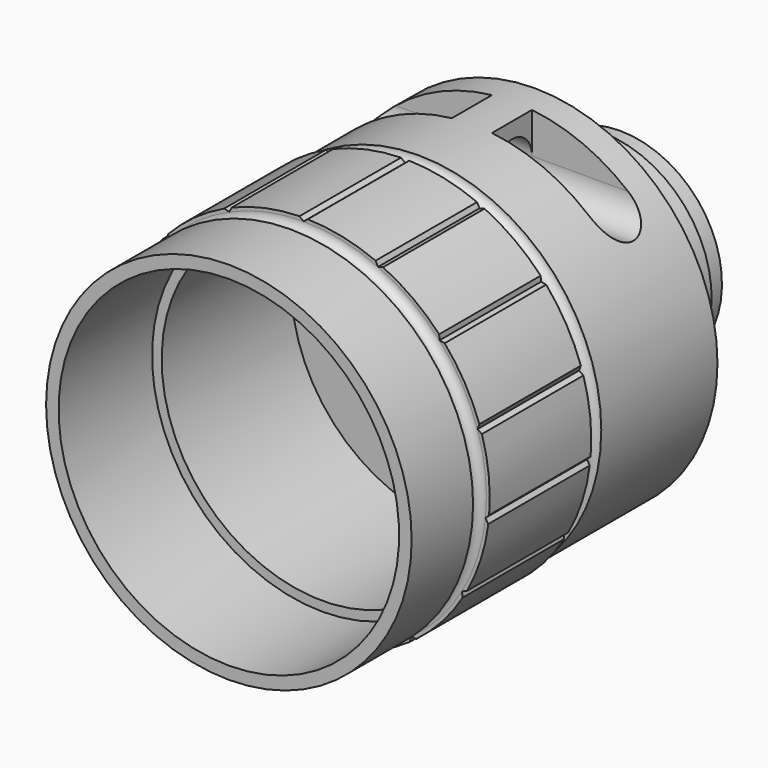
from build123d import *

# Parameters (mm, degrees)
F4_DEPTH = 25
F5_R     = 1.5
F6_DEPTH = 12.5
F8_W     = 10
F8_H     = 3
F9_DEPTH = 2.7


with BuildPart() as f2:
    # F0 (on Right) → F2 (revolve)
    with BuildSketch(Plane.YZ):
        with BuildLine():
            Line((4.6, 10.95), (0, 10.95))
            Line((0, 10.95), (0, 10.2))
            Line((0, 10.2), (7, 10.2))
            Line((7, 10.2), (7, 9.625))
            Line((7, 9.625), (16.7, 9.625))
            Line((16.7, 9.625), (16.7, 0))
            Line((16.7, 0), (29.3, 0))
            Line((29.3, 0), (29.3, 6.1))
            Line((29.3, 6.1), (28.3, 6.1))
            Line((28.3, 6.1), (27.9, 6.6))
            Line((27.9, 6.6), (22.9, 6.6))
            Line((22.9, 6.6), (22.9, 10.95))
            Line((22.9, 10.95), (14.2, 10.95))
            ThreePointArc((14.2, 10.95), (13.7, 10.45), (13.2, 10.95))
            Line((13.2, 10.95), (13.2, 11.15))
            Line((13.2, 11.15), (5.6, 11.15))
            Line((5.6, 11.15), (5.6, 10.95))
            ThreePointArc((5.6, 10.95), (5.1, 10.45), (4.6, 10.95))
        make_face()
    revolve(axis=Axis((0, 2.436379, 0), (0, 1, 0)))

    # F3 (on Front) → F4 (cut)
    with BuildSketch(Plane.XZ):
        Polygon((-0.25, 11.15), (0, 10.95), (0.25, 11.15), (0.25, 11.247457), (-0.25, 11.247457), align=None)
        Polygon((-4.803139, 10.173379), (-4.7635, 10.084348), (-4.453766, 10.003323), (-4.306727, 10.287716), (-4.346367, 10.376747), align=None)
        Polygon((-8.525772, 7.340232), (-8.453347, 7.27502), (-8.137436, 7.32698), (-8.118782, 7.646592), (-8.191207, 7.711804), align=None)
        Polygon((-10.774222, 3.237891), (-10.681534, 3.207775), (-10.414069, 3.383736), (-10.527026, 3.683304), (-10.619713, 3.713419), align=None)
        Polygon((-11.15971, -1.42431), (-11.062787, -1.414123), (-10.890015, -1.144587), (-11.115051, -0.916862), (-11.211974, -0.927049), align=None)
        Polygon((-9.615583, -5.840235), (-9.531183, -5.791506), (-9.482978, -5.475), (-9.781183, -5.358494), (-9.865583, -5.407222), align=None)
        Polygon((-6.408835, -9.24633), (-6.351551, -9.167486), (-6.436249, -8.858736), (-6.75606, -8.873593), (-6.813344, -8.952438), align=None)
        Polygon((-2.093941, -11.053651), (-2.073678, -10.958324), (-2.276633, -10.710716), (-2.562752, -10.854368), (-2.583015, -10.949695), align=None)
        Polygon((2.583015, -10.949695), (2.562752, -10.854368), (2.276633, -10.710716), (2.073678, -10.958324), (2.093941, -11.053651), align=None)
        Polygon((6.813344, -8.952438), (6.75606, -8.873593), (6.436249, -8.858736), (6.351551, -9.167486), (6.408835, -9.24633), align=None)
        Polygon((9.865583, -5.407222), (9.781183, -5.358494), (9.482978, -5.475), (9.531183, -5.791506), (9.615583, -5.840235), align=None)
        Polygon((11.211974, -0.927049), (11.115051, -0.916862), (10.890015, -1.144587), (11.062787, -1.414123), (11.15971, -1.42431), align=None)
        Polygon((10.619713, 3.713419), (10.527026, 3.683304), (10.414069, 3.383736), (10.681534, 3.207775), (10.774222, 3.237891), align=None)
        Polygon((8.191207, 7.711804), (8.118782, 7.646592), (8.137436, 7.32698), (8.453347, 7.27502), (8.525772, 7.340232), align=None)
        Polygon((4.346367, 10.376747), (4.306727, 10.287716), (4.453766, 10.003323), (4.7635, 10.084348), (4.803139, 10.173379), align=None)
    extrude(amount=-F4_DEPTH, mode=Mode.SUBTRACT)

    # F5 (on Right) → F6 (cut, symmetric)
    with BuildSketch(Plane.YZ):
        with Locations((19.7, 8.447273)):
            Circle(F5_R)
    extrude(amount=F6_DEPTH, both=True, mode=Mode.SUBTRACT)

    # F8 (on offset) → F9 (cut)
    with BuildSketch(Plane.XY.offset(11.15)):
        with Locations((6.2, 19.7)):
            Rectangle(F8_W, F8_H)
        with Locations((-6.2, 19.7)):
            Rectangle(F8_W, F8_H)
    extrude(amount=-F9_DEPTH, mode=Mode.SUBTRACT)


solid = f2.part
